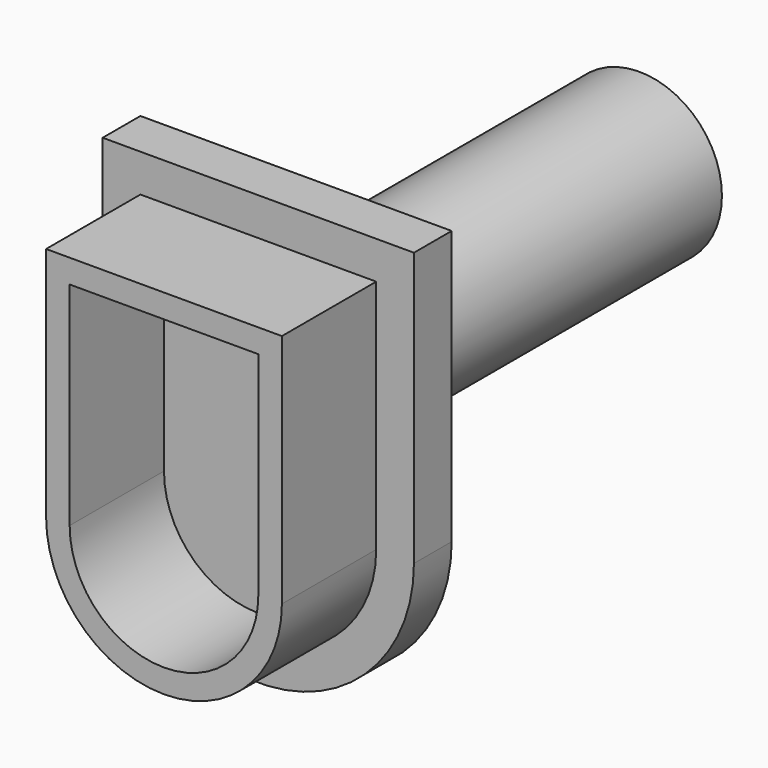
from build123d import *

# Parameters (mm, degrees)
F0_R     = 3.5
F1_DEPTH = 2
F2_DEPTH = 5
F3_DEPTH = 20.2


with BuildPart() as f1:
    # F0 (on Front) → F1 (new body)
    with BuildSketch(Plane.XZ):
        with BuildLine():
            Line((-12.4122027444, 20.418163389), (-25.6122041357, 20.418163389))
            Line((-25.6122041357, 20.418163389), (-25.6122041357, 8.8181626933))
            ThreePointArc((-25.6122041357, 8.8181626933), (-19.0122034401, 2.2181619977), (-12.4122027444, 8.8181626933))
            Line((-12.4122027444, 8.8181626933), (-12.4122027444, 20.418163389))
        make_face()
        with BuildLine():
            Line((-24.0122034401, 8.8181626933), (-24.0122034401, 18.8181626933))
            Line((-24.0122034401, 18.8181626933), (-14.0122034401, 18.8181626933))
            Line((-14.0122034401, 18.8181626933), (-14.0122034401, 8.8181626933))
            ThreePointArc((-14.0122034401, 8.8181626933), (-19.0122034401, 3.8181626933), (-24.0122034401, 8.8181626933))
        make_face(mode=Mode.SUBTRACT)
        with BuildLine():
            Line((-14.0122034401, 18.8181626933), (-24.0122034401, 18.8181626933))
            Line((-24.0122034401, 18.8181626933), (-24.0122034401, 8.8181626933))
            ThreePointArc((-24.0122034401, 8.8181626933), (-19.0122034401, 3.8181626933), (-14.0122034401, 8.8181626933))
            Line((-14.0122034401, 8.8181626933), (-14.0122034401, 18.8181626933))
        make_face()
        with BuildLine():
            Line((-23.0122034401, 8.8181626933), (-23.0122034401, 17.8181626933))
            Line((-23.0122034401, 17.8181626933), (-15.0122034401, 17.8181626933))
            Line((-15.0122034401, 17.8181626933), (-15.0122034401, 8.8181626933))
            ThreePointArc((-15.0122034401, 8.8181626933), (-19.0122034401, 4.8181626933), (-23.0122034401, 8.8181626933))
        make_face(mode=Mode.SUBTRACT)
        with BuildLine():
            Line((-15.0122034401, 17.8181626933), (-23.0122034401, 17.8181626933))
            Line((-23.0122034401, 17.8181626933), (-23.0122034401, 8.8181626933))
            ThreePointArc((-23.0122034401, 8.8181626933), (-19.0122034401, 4.8181626933), (-15.0122034401, 8.8181626933))
            Line((-15.0122034401, 8.8181626933), (-15.0122034401, 17.8181626933))
        make_face()
        with Locations((-19.0122034401, 13.3181626933)):
            Circle(F0_R, mode=Mode.SUBTRACT)
    extrude(amount=-F1_DEPTH)

    # F0 (on Front) → F2 (join)
    with BuildSketch(Plane.XZ):
        with BuildLine():
            Line((-14.0122034401, 18.8181626933), (-24.0122034401, 18.8181626933))
            Line((-24.0122034401, 18.8181626933), (-24.0122034401, 8.8181626933))
            ThreePointArc((-24.0122034401, 8.8181626933), (-19.0122034401, 3.8181626933), (-14.0122034401, 8.8181626933))
            Line((-14.0122034401, 8.8181626933), (-14.0122034401, 18.8181626933))
        make_face()
        with BuildLine():
            Line((-23.0122034401, 8.8181626933), (-23.0122034401, 17.8181626933))
            Line((-23.0122034401, 17.8181626933), (-15.0122034401, 17.8181626933))
            Line((-15.0122034401, 17.8181626933), (-15.0122034401, 8.8181626933))
            ThreePointArc((-15.0122034401, 8.8181626933), (-19.0122034401, 4.8181626933), (-23.0122034401, 8.8181626933))
        make_face(mode=Mode.SUBTRACT)
    extrude(amount=F2_DEPTH)

    # F0 (on Front) → F3 (join)
    with BuildSketch(Plane.XZ):
        with Locations((-19.0122034401, 13.3181626933)):
            Circle(F0_R)
    extrude(amount=-F3_DEPTH)


solid = f1.part
